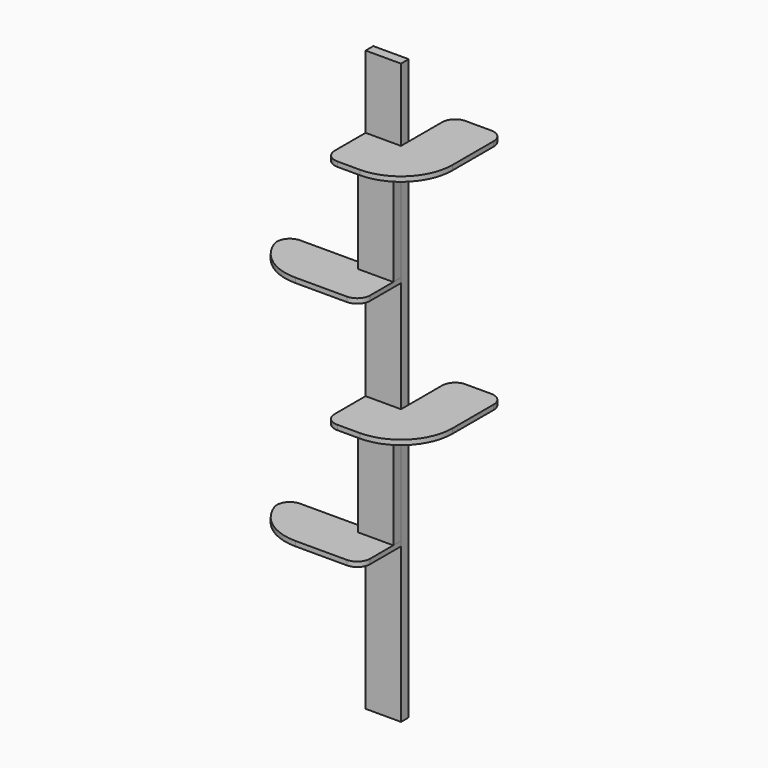
from build123d import *

# Parameters (mm, degrees)
F4_W      = 139.7
F4_H      = 38.1
F5_DEPTH  = 2286
F7_DEPTH  = 19.05
F9_DEPTH  = 19.05
F11_DEPTH = 19.05
F13_DEPTH = 19.05
F14_W     = 139.794812
F14_H     = 38.1
F15_DEPTH = 438.15
F16_W     = 139.7
F16_H     = 38.1
F17_DEPTH = 438.15


with BuildPart() as f5:
    # F4 (on Top) → F5 (new body)
    with BuildSketch(Plane.XY):
        with Locations((-69.85, 19.05)):
            Rectangle(F4_W, F4_H)
    extrude(amount=F5_DEPTH)


with BuildPart() as f7:
    # F6 (on offset) → F7 (new body)
    with BuildSketch(Plane.XY.offset(609.6)):
        with BuildLine():
            Line((0, -152.4), (0, 0))
            Line((0, 0), (-254, 0))
            Line((-254, 0), (-397.684098, 0))
            ThreePointArc((-397.684098, 0), (-439.162124, -21.470606), (-445.578797, -67.733333))
            ThreePointArc((-445.578797, -67.733333), (-371.317575, -165.912105), (-254, -203.2))
            Line((-254, -203.2), (-50.8, -203.2))
            ThreePointArc((-50.8, -203.2), (-14.878976, -188.321024), (0, -152.4))
        make_face()
    extrude(amount=F7_DEPTH)


with BuildPart() as f9:
    # F8 (on offset) → F9 (new body)
    with BuildSketch(Plane.XY.offset(1066.8)):
        with BuildLine():
            Line((0, 0), (-139.7, 0))
            Line((-139.7, 0), (-139.7, -152.4))
            ThreePointArc((-139.7, -152.4), (-124.821024, -188.321024), (-88.9, -203.2))
            Line((-88.9, -203.2), (0, -203.2))
            ThreePointArc((0, -203.2), (143.684098, -143.684098), (203.2, 0))
            Line((203.2, 0), (203.2, 203.2))
            ThreePointArc((203.2, 203.2), (188.321024, 239.121024), (152.4, 254))
            Line((152.4, 254), (50.8, 254))
            ThreePointArc((50.8, 254), (14.878976, 239.121024), (0, 203.2))
            Line((0, 203.2), (0, 0))
        make_face()
    extrude(amount=F9_DEPTH)


with BuildPart() as f11:
    # F10 (on offset) → F11 (new body)
    with BuildSketch(Plane.XY.offset(1524)):
        with BuildLine():
            Line((0, -152.4), (0, 0))
            Line((0, 0), (-254, 0))
            Line((-254, 0), (-397.684098, 0))
            ThreePointArc((-397.684098, 0), (-439.162124, -21.470606), (-445.578797, -67.733333))
            ThreePointArc((-445.578797, -67.733333), (-371.317575, -165.912105), (-254, -203.2))
            Line((-254, -203.2), (-50.8, -203.2))
            ThreePointArc((-50.8, -203.2), (-14.878976, -188.321024), (0, -152.4))
        make_face()
    extrude(amount=F11_DEPTH)


with BuildPart() as f13:
    # F12 (on offset) → F13 (new body)
    with BuildSketch(Plane.XY.offset(1981.2)):
        with BuildLine():
            Line((0, 0), (-139.7, 0))
            Line((-139.7, 0), (-139.7, -152.4))
            ThreePointArc((-139.7, -152.4), (-124.821024, -188.321024), (-88.9, -203.2))
            Line((-88.9, -203.2), (0, -203.2))
            ThreePointArc((0, -203.2), (143.684098, -143.684098), (203.2, 0))
            Line((203.2, 0), (203.2, 203.2))
            ThreePointArc((203.2, 203.2), (188.321024, 239.121024), (152.4, 254))
            Line((152.4, 254), (50.8, 254))
            ThreePointArc((50.8, 254), (14.878976, 239.121024), (0, 203.2))
            Line((0, 203.2), (0, 0))
        make_face()
    extrude(amount=F13_DEPTH)


with BuildPart() as f15:
    # F14 (on face) → F15 (new body)
    with BuildSketch(Plane.XY.offset(628.65)):
        with Locations((-69.897406, -19.05)):
            Rectangle(F14_W, F14_H)
    extrude(amount=F15_DEPTH)


with BuildPart() as f17:
    # F16 (on face) → F17 (new body)
    with BuildSketch(Plane.XY.offset(1543.05)):
        with Locations((-69.85, -19.05)):
            Rectangle(F16_W, F16_H)
    extrude(amount=F17_DEPTH)


solid = Compound([f5.part, f7.part, f9.part, f11.part, f13.part, f15.part, f17.part])
